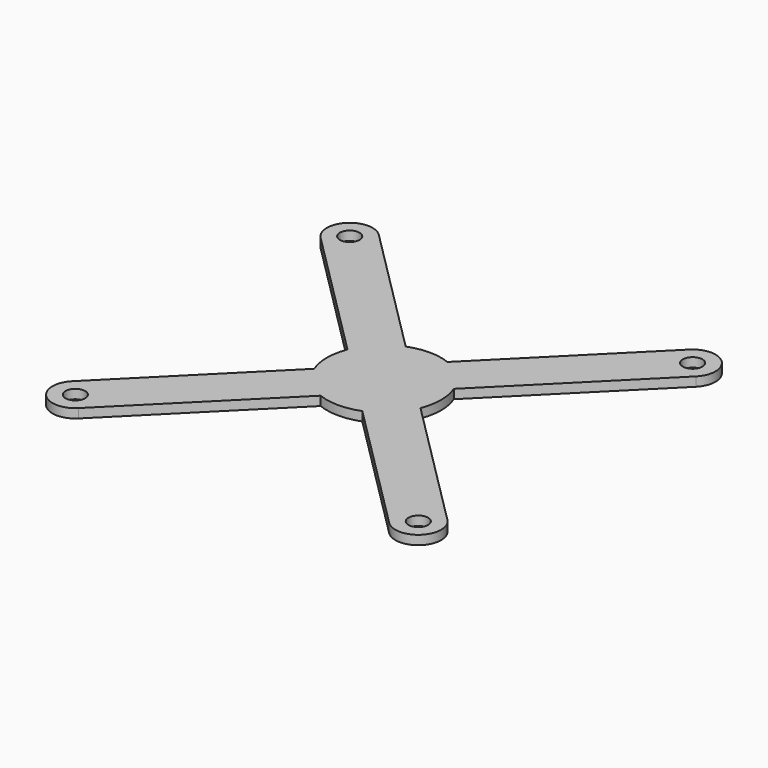
from build123d import *

# Parameters (mm, degrees)
F0_R     = 2.15
F1_DEPTH = 2


with BuildPart() as f1:
    # F0 (on Top) → F1 (new body)
    with BuildSketch(Plane.XY):
        with BuildLine():
            Line((-4.565392, 11.63646), (-33.964466, 41.035534))
            ThreePointArc((-33.964466, 41.035534), (-41.035534, 41.035534), (-41.035534, 33.964466))
            Line((-41.035534, 33.964466), (-11.63646, 4.565392))
            ThreePointArc((-11.63646, 4.565392), (-12.5, 0), (-11.63646, -4.565392))
            Line((-11.63646, -4.565392), (-41.035534, -33.964466))
            ThreePointArc((-41.035534, -33.964466), (-41.035534, -41.035534), (-33.964466, -41.035534))
            Line((-33.964466, -41.035534), (-4.565392, -11.63646))
            ThreePointArc((-4.565392, -11.63646), (0, -12.5), (4.565392, -11.63646))
            Line((4.565392, -11.63646), (33.964466, -41.035534))
            ThreePointArc((33.964466, -41.035534), (41.035534, -41.035534), (41.035534, -33.964466))
            Line((41.035534, -33.964466), (11.63646, -4.565392))
            ThreePointArc((11.63646, -4.565392), (12.5, 0), (11.63646, 4.565392))
            Line((11.63646, 4.565392), (41.035534, 33.964466))
            ThreePointArc((41.035534, 33.964466), (41.035534, 41.035534), (33.964466, 41.035534))
            Line((33.964466, 41.035534), (4.565392, 11.63646))
            ThreePointArc((4.565392, 11.63646), (0, 12.5), (-4.565392, 11.63646))
        make_face()
        with Locations((-37.5, -37.5)):
            Circle(F0_R, mode=Mode.SUBTRACT)
        with Locations((37.5, -37.5)):
            Circle(F0_R, mode=Mode.SUBTRACT)
        with Locations((-37.5, 37.5)):
            Circle(F0_R, mode=Mode.SUBTRACT)
        with Locations((37.5, 37.5)):
            Circle(F0_R, mode=Mode.SUBTRACT)
    extrude(amount=F1_DEPTH)


solid = f1.part
